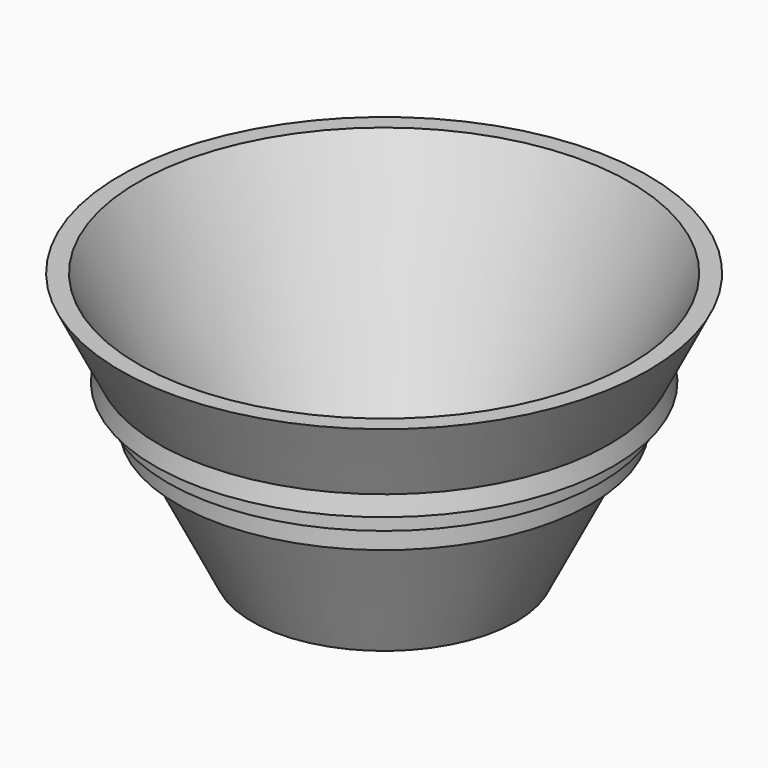
from build123d import *


with BuildPart() as f1:
    # F0 (on Front) → F1 (revolve)
    with BuildSketch(Plane.XZ):
        Polygon((0, 3.0734), (0, 0), (25.4, 0), (37.683454, 24.566907), (39.785099, 28.770197), (41.596862, 32.393724), (43.341268, 35.882536), (50.8, 50.8), (47.363834, 50.8), (23.500534, 3.0734), align=None)
        Polygon((43.341268, 35.882536), (41.596862, 32.393724), (44.08643, 32.393724), align=None)
        Polygon((41.596862, 32.393724), (39.785099, 28.770197), (41.596862, 28.770197), align=None)
        Polygon((39.785099, 28.770197), (37.683454, 24.566907), (39.785099, 24.566907), align=None)
    revolve(axis=Axis((0, 0, 25.4), (0, 0, 1)))


solid = f1.part
